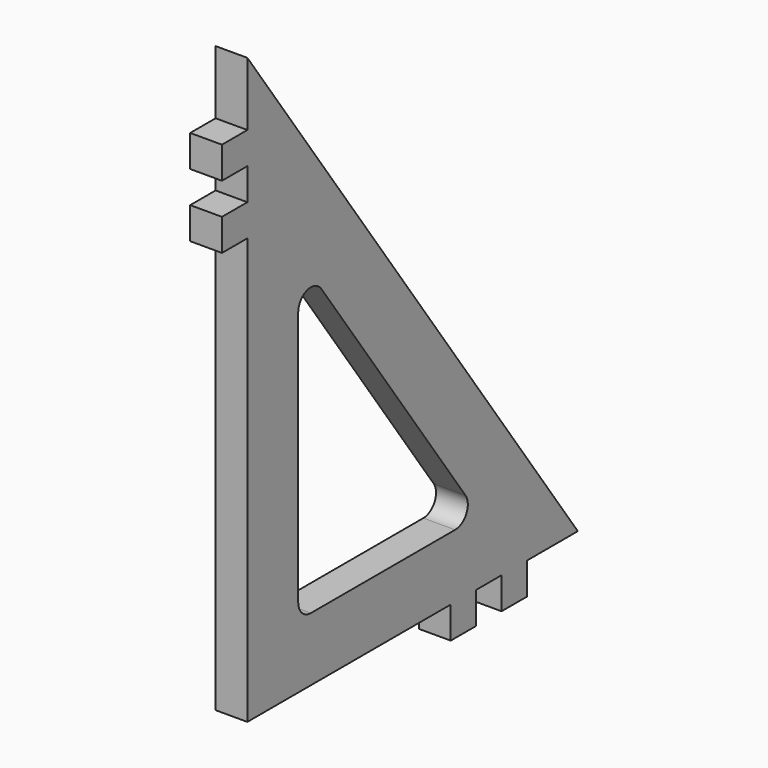
from build123d import *

# Parameters (mm, degrees)
F1_DEPTH = 5
F3_DEPTH = 5.001
F4_W     = 5
F4_H     = 10
F4_H_2   = 5
F4_H_3   = 67
F4_W_2   = 40
F4_W_3   = 10
F5_DEPTH = 5.001


with BuildPart() as f1:
    # F0 (on Right) → F1 (new body)
    with BuildSketch(Plane.YZ):
        Polygon((5, 97), (0, 97), (0, 0), (70, 0), (70, 5), align=None)
    extrude(amount=-F1_DEPTH)

    # F2 (on face) → F3 (cut, through all)
    with BuildSketch(Plane.YZ):
        with BuildLine():
            ThreePointArc((19.541804, 59.087683), (16.743201, 60.027803), (15, 57.645104))
            Line((15, 57.645104), (15, 17.5))
            ThreePointArc((15, 17.5), (15.732233, 15.732233), (17.5, 15))
            Line((17.5, 15), (45.863388, 15))
            ThreePointArc((45.863388, 15), (48.083349, 16.350315), (47.905193, 18.942579))
            Line((47.905193, 18.942579), (19.541804, 59.087683))
        make_face()
    extrude(amount=-F3_DEPTH, mode=Mode.SUBTRACT)

    # F4 (on face) → F5 (cut, through all)
    with BuildSketch(Plane.YZ):
        with Locations((2.5, 92)):
            Rectangle(F4_W, F4_H)
        with Locations((2.5, 79.5)):
            Rectangle(F4_W, F4_H_2)
        with Locations((2.5, 38.5)):
            Rectangle(F4_W, F4_H_3)
        with Locations((25, 2.5)):
            Rectangle(F4_W_2, F4_H_2)
        with Locations((2.5, 2.5)):
            Rectangle(F4_W, F4_H_2)
        with Locations((52.5, 2.5)):
            Rectangle(F4_W, F4_H_2)
        with Locations((65, 2.5)):
            Rectangle(F4_W_3, F4_H_2)
    extrude(amount=-F5_DEPTH, mode=Mode.SUBTRACT)


solid = f1.part
